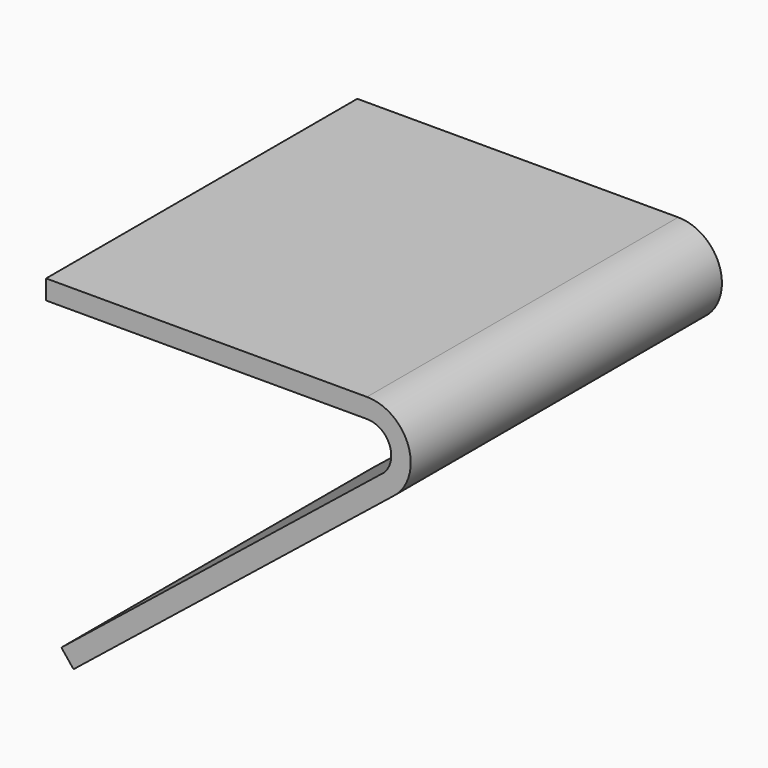
from build123d import *

# Parameters (mm, degrees)
F1_DEPTH = 80


with BuildPart() as f1:
    # F0 (on Front) → F1 (new body)
    with BuildSketch(Plane.XZ):
        with BuildLine():
            Line((-60.342907, -59.920785), (5.373048, -7.220136))
            ThreePointArc((5.373048, -7.220136), (8.543454, 2.830087), (0, 9))
            Line((0, 9), (-65.988133, 9))
            Line((-65.988133, 9), (-65.988133, 5))
            Line((-65.988133, 5), (0, 5))
            ThreePointArc((0, 5), (4.621744, 1.907742), (3.526838, -3.544208))
            Line((3.526838, -3.544208), (-62.846221, -56.800943))
            Line((-62.846221, -56.800943), (-60.342907, -59.920785))
        make_face()
    extrude(amount=F1_DEPTH)


solid = f1.part
